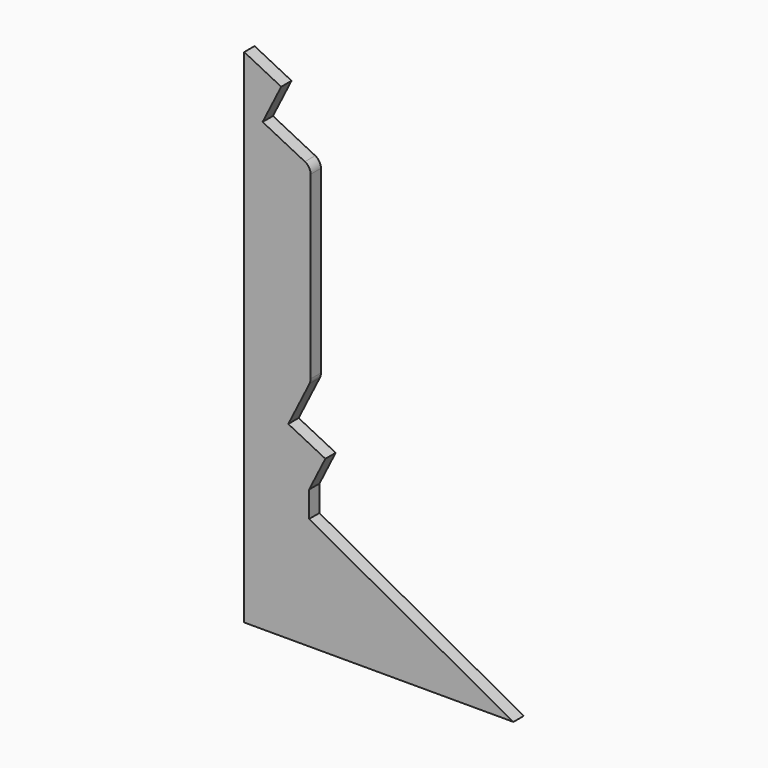
from build123d import *

# Parameters (mm, degrees)
F1_DEPTH = 25


with BuildPart() as f1:
    # F0 (on Front) → F1 (new body)
    with BuildSketch(Plane.XZ):
        with BuildLine():
            Line((-124.571604, -610.826684), (395.039996, -610.826684))
            Line((395.039996, -610.826684), (0.605091, -394.213883))
            Line((0.605091, -394.213883), (0.605091, -344.213883))
            Line((0.605091, -344.213883), (31.970073, -281.634031))
            Line((31.970073, -281.634031), (-39.549758, -245.788336))
            Line((-39.549758, -245.788336), (1.378216, -164.12827))
            ThreePointArc((1.378216, -164.12827), (2.961033, -159.771238), (3.498259, -155.166846))
            Line((3.498259, -155.166846), (3.498259, 192.592175))
            ThreePointArc((3.498259, 192.592175), (0.517232, 203.097153), (-7.537197, 210.470568))
            Line((-7.537197, 210.470568), (-89.129627, 251.382462))
            Line((-89.129627, 251.382462), (-53.27145, 322.896036))
            Line((-53.27145, 322.896036), (-124.571604, 358.6472))
            Line((-124.571604, 358.6472), (-124.571604, -610.826684))
        make_face()
    extrude(amount=F1_DEPTH)


solid = f1.part
